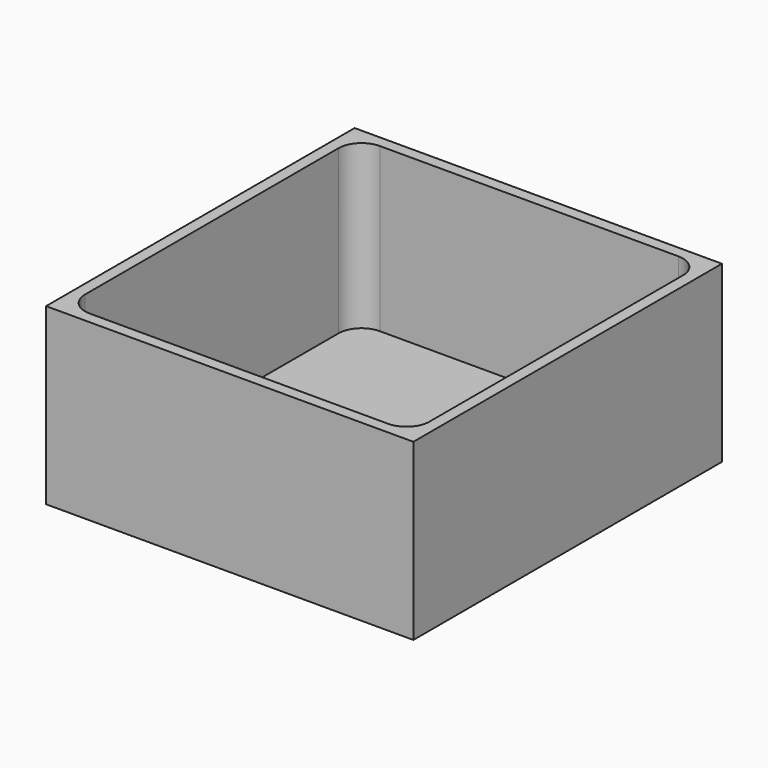
from build123d import *

# Parameters (mm, degrees)
F0_W     = 80
F0_H     = 84
F1_DEPTH = 38
F2_T     = -2.5
F3_R     = 5


with BuildPart() as f1:
    # F0 (on Top) → F1 (new body)
    with BuildSketch(Plane.XY):
        with Locations((-40, 42)):
            Rectangle(F0_W, F0_H)
    extrude(amount=F1_DEPTH)

    # F2
    f2_openings = [f1.faces().sort_by_distance(p)[0] for p in [
        (-40, 42, 38),
    ]]
    offset(amount=F2_T, openings=f2_openings)

    # F3
    f3_edges = [f1.edges().sort_by_distance(p)[0] for p in [
        (-77.5, 81.5, 20.25),
        (-2.5, 81.5, 20.25),
        (-2.5, 2.5, 20.25),
        (-77.5, 2.5, 20.25),
    ]]
    fillet(f3_edges, radius=F3_R)


solid = f1.part
